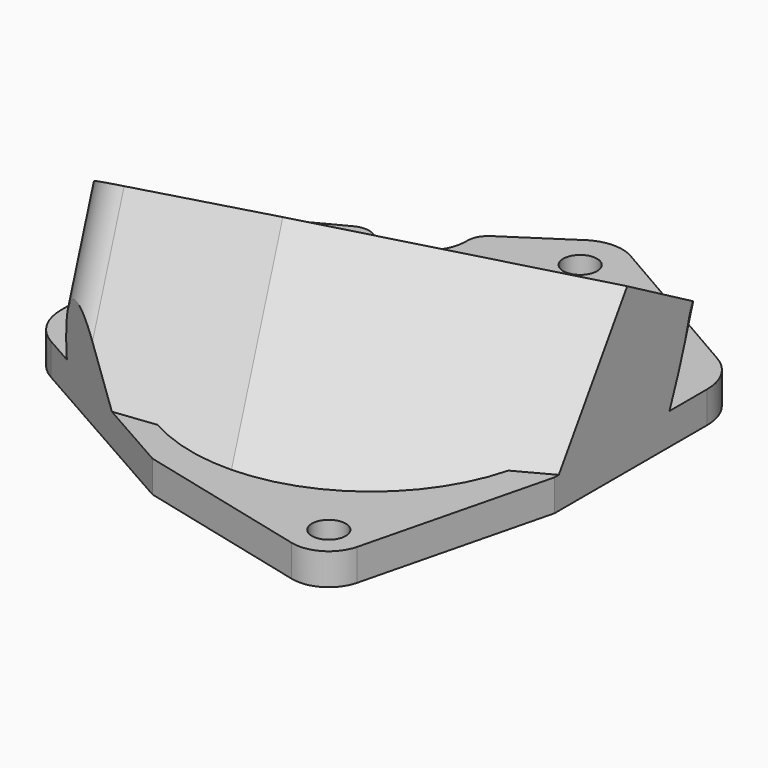
from build123d import *

# Parameters (mm, degrees)
SKETCH037_R          = 1.6
SKETCH037_R_2        = 17
PAD006_DEPTH         = 3
SKETCH003_R          = 1.5
PAD007_DEPTH         = 22
SKETCH042_R          = 33.309059
POCKET028_DEPTH      = 18.95
SKETCH043_W          = 51.697506
SKETCH043_H          = 15.935999
POCKET029_DEPTH      = 28.801
POCKET029_DEPTH_BACK = 23.4566344398
SKETCH040_R          = 3
FILLET003_R          = 2
FILLET004_R          = 5
FILLET005_R          = 1


with BuildPart() as part:
    # Sketch037 → Pad006 (new body)
    with BuildSketch(Plane.XY.offset(8)):
        with BuildLine():
            Line((-25.5, 14.6837073124), (-25.5, -7.8162926876))
            Line((-5.3310209809, -19.2403151033), (-25.5, -7.8162926876))
            Line((11.1640063658, -23.3529873285), (-5.3310209809, -19.2403151033))
            ThreePointArc((11.1640063658, -23.3529873285), (13.7797833094, -22.9620568449), (15.3529873285, -20.8359936342))
            Line((19.8, -3), (15.3529873285, -20.8359936342))
            Line((19.8, 15.1005154776), (19.8, -3))
            ThreePointArc((19.8, 15.1005154776), (19.1301270189, 17.6005154776), (17.3, 19.4306424965))
            Line((2, 28.2641016151), (17.3, 19.4306424965))
            ThreePointArc((2, 28.2641016151), (0, 28.8), (-2, 28.2641016151))
            Line((-9.101080859, 23.5924155561), (-2, 28.2641016151))
            ThreePointArc((-15.8499401029, 19.751877), (-10.97303678, 19.0318958608), (-9.101080859, 23.5924155561))
            Line((-25.5, 14.6837073124), (-15.8499401029, 19.751877))
        make_face()
        with Locations((0, 24.8)):
            Circle(SKETCH037_R, mode=Mode.SUBTRACT)
        with Locations((12, -20)):
            Circle(SKETCH037_R, mode=Mode.SUBTRACT)
        with Locations((-21.5, 12.3)):
            Circle(SKETCH037_R, mode=Mode.SUBTRACT)
        Circle(SKETCH037_R_2, mode=Mode.SUBTRACT)
    extrude(amount=PAD006_DEPTH)

    # Sketch003 → Pad007 (join)
    with BuildSketch(Plane(origin=(-2.6, 10.8, 17), x_dir=(0.9021044144, 0.420580995, -0.0965362737), z_dir=(-0.1354559934, 0.4884043208, 0.8620399604))):
        with BuildLine():
            Line((-23.3696005315, -4.8773641565), (-13.621692219, 4.2127074032))
            ThreePointArc((-12.2576954989, 4.75), (-12.9906979524, 4.610835136), (-13.621692219, 4.2127074032))
            Line((-12.2576954989, 4.75), (10.0610339657, 4.75))
            ThreePointArc((10.780373766, 4.4446583705), (10.4517650942, 4.6705048535), (10.0610339657, 4.75))
            Line((10.780373766, 4.4446583705), (19.7793336026, -4.8740373329))
            ThreePointArc((21.0423045011, -8), (20.7146318466, -6.3142703296), (19.7793336026, -4.8740373329))
            Line((21.0423045011, -8), (21.0423045011, -15.35))
            ThreePointArc((20.0423045011, -16.35), (20.7494112823, -16.0571067812), (21.0423045011, -15.35))
            Line((20.0423045011, -16.35), (-8.9576954989, -16.35))
            Line((-8.9576954989, -16.35), (-21.8124305048, -12.0490416884))
            ThreePointArc((-23.3696005315, -4.8773641565), (-24.6301401013, -8.9059534041), (-21.8124305048, -12.0490416884))
        make_face()
        with Locations((16.5423045011, -8)):
            Circle(SKETCH003_R, mode=Mode.SUBTRACT)
        with Locations((-20.4576954989, -8)):
            Circle(SKETCH003_R, mode=Mode.SUBTRACT)
    extrude(amount=-PAD007_DEPTH)

    # Sketch042 → Pocket028 (cut, symmetric)
    with BuildSketch(Plane.XY.offset(8)):
        with Locations((0, 3.706026)):
            Circle(SKETCH042_R)
        with BuildLine():
            Line((-25.5, 14.6963702892), (-25.5, -7.8036297108))
            Line((-5.3310209809, -19.2403151033), (-25.5, -7.8036297108))
            Line((11.1640063658, -23.3529873285), (-5.3310209809, -19.2403151033))
            ThreePointArc((11.1640063658, -23.3529873285), (13.7797833094, -22.9620568449), (15.3529873285, -20.8359936342))
            Line((19.8, -3), (15.3529873285, -20.8359936342))
            Line((19.8, 15.1005154776), (19.8, -3))
            ThreePointArc((19.8, 15.1005154776), (19.1301270189, 17.6005154776), (17.3, 19.4306424965))
            Line((2, 28.2641016151), (17.3, 19.4306424965))
            ThreePointArc((2, 28.2641016151), (0, 28.8), (-2, 28.2641016151))
            Line((-25.5, 14.6963702892), (-2, 28.2641016151))
        make_face(mode=Mode.SUBTRACT)
    extrude(amount=POCKET028_DEPTH, both=True, mode=Mode.SUBTRACT)

    # Sketch043 → Pocket029 (cut, two sides)
    with BuildSketch(Plane.XZ) as pocket029_sk:
        with Locations((-1.406603, 0.0320005)):
            Rectangle(SKETCH043_W, SKETCH043_H)
    extrude(amount=-POCKET029_DEPTH, mode=Mode.SUBTRACT)
    extrude(pocket029_sk.sketch, amount=POCKET029_DEPTH_BACK, mode=Mode.SUBTRACT)

    # SubtractivePipe: sweep along a path in Sketch044
    with BuildLine(Plane(origin=(0, 0, 6), x_dir=(-0.3746065934, 0.9271838546, 0), z_dir=(0.9266190392, 0.3743783932, 0.0348994967))) as subtractivepipe_path:
        ThreePointArc((4.9840972168, 16.8364980654), (1.2784963095, 9.7214039712), (0, 1.801714))
    # Sketch040 → SubtractivePipe (sweep, cut)
    with BuildSketch(Plane(origin=(-2, 7.6, 8), x_dir=(0.8829475929, 0.4694715628, 0), z_dir=(0, 0, 1))):
        with Locations((-1.846382, -7.651343)):
            Circle(SKETCH040_R)
    sweep(path=subtractivepipe_path.line, mode=Mode.SUBTRACT)

    # Fillet003
    fillet003_edges = [part.edges().sort_by_distance(p)[0] for p in [
        (-9.101081, 23.592416, 9.5),
        (-15.84994, 19.751877, 9.5),
    ]]
    fillet(fillet003_edges, radius=FILLET003_R)

    # Fillet004
    fillet004_edges = [part.edges().sort_by_distance(p)[0] for p in [
        (-25.5, -7.80363, 9.5),
        (-25.5, 14.683707, 9.5),
    ]]
    fillet(fillet004_edges, radius=FILLET004_R)

    # Fillet005
    fillet005_edges = [part.edges().sort_by_distance(p)[0] for p in [
        (-4.660699, 2.190867, 21.553854),
    ]]
    fillet(fillet005_edges, radius=FILLET005_R)


solid = part.part
